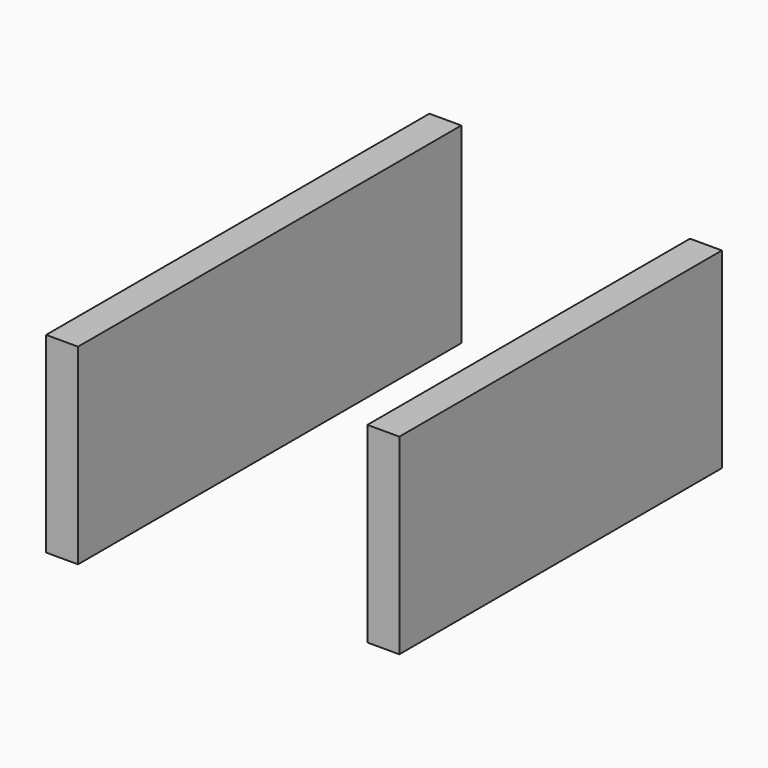
from build123d import *

# Parameters (mm, degrees)
F0_W     = 50.8
F0_H     = 762
F0_H_2   = 641.35
F1_DEPTH = 304.8


with BuildPart() as f1:
    # F0 (on Top) → F1 (new body)
    with BuildSketch(Plane.XY):
        Rectangle(F0_W, F0_H)
        with Locations((462.783813, 0)):
            Rectangle(F0_W, F0_H_2)
    extrude(amount=F1_DEPTH)


solid = f1.part
